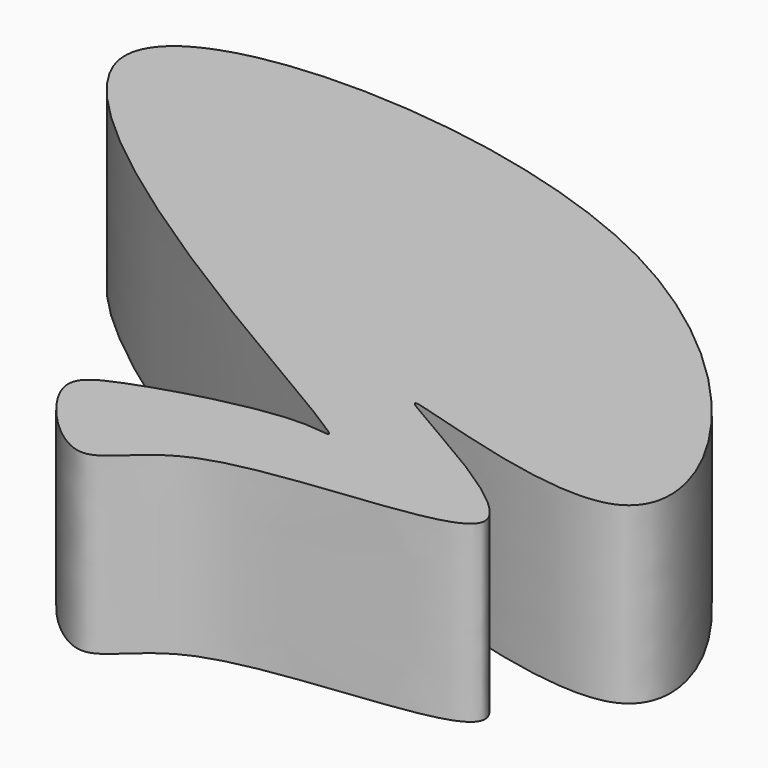
from build123d import *

# Parameters (mm, degrees)
F1_DEPTH = 25.4


with BuildPart() as f1:
    # F0 (on Top) → F1 (new body)
    with BuildSketch(Plane.XY):
        with BuildLine():
            add(Edge.make_bspline(
                [(0, 0), (-3.357522618, 3.3142117408), (-132.2872695437, 70.629496977), (9.2707749025, 73.6705253795), (61.449439244, -10.4829088769), (-20.8609570947, 22.3774200081), (51.490872892, -12.4206021785), (-12.4100999675, -8.9535085846), (-17.3213649043, -27.0340195698), (-34.0413853491, -9.1056789045), (-25.6668422964, -4.2303930447), (-5.5924188457, 1.3405505856), (0.6462993435, -0.6379623061), (0, 0)],
                knots=[0, 0, 0, 0, 0.1607095505, 0.304775739, 0.4342836368, 0.5302219013, 0.6204938098, 0.7201059987, 0.7809588747, 0.846962495, 0.8896137579, 0.9690645488, 1, 1, 1, 1], degree=3))
        make_face()
    extrude(amount=F1_DEPTH)


solid = f1.part
